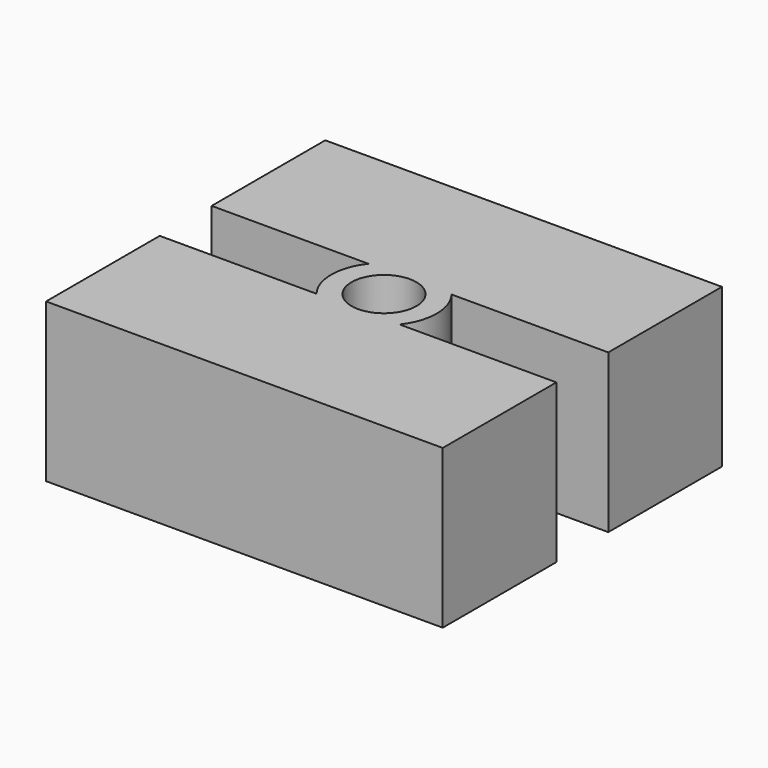
from build123d import *

# Parameters (mm, degrees)
F0_R     = 1.6
F1_DEPTH = 7.8


with BuildPart() as f1:
    # F0 (on Top) → F1 (new body)
    with BuildSketch(Plane.XY):
        with BuildLine():
            Line((9.775, 1.6), (9.775, 8.6))
            Line((9.775, 8.6), (-9.775, 8.6))
            Line((-9.775, 8.6), (-9.775, 1.6))
            Line((-9.775, 1.6), (-2.04939, 1.6))
            ThreePointArc((-2.04939, 1.6), (-2.6, 0), (-2.04939, -1.6))
            Line((-2.04939, -1.6), (-9.775, -1.6))
            Line((-9.775, -1.6), (-9.775, -8.6))
            Line((-9.775, -8.6), (9.775, -8.6))
            Line((9.775, -8.6), (9.775, -1.6))
            Line((9.775, -1.6), (2.04939, -1.6))
            ThreePointArc((2.04939, -1.6), (2.6, 0), (2.04939, 1.6))
            Line((2.04939, 1.6), (9.775, 1.6))
        make_face()
        Circle(F0_R, mode=Mode.SUBTRACT)
    extrude(amount=F1_DEPTH)


solid = f1.part
